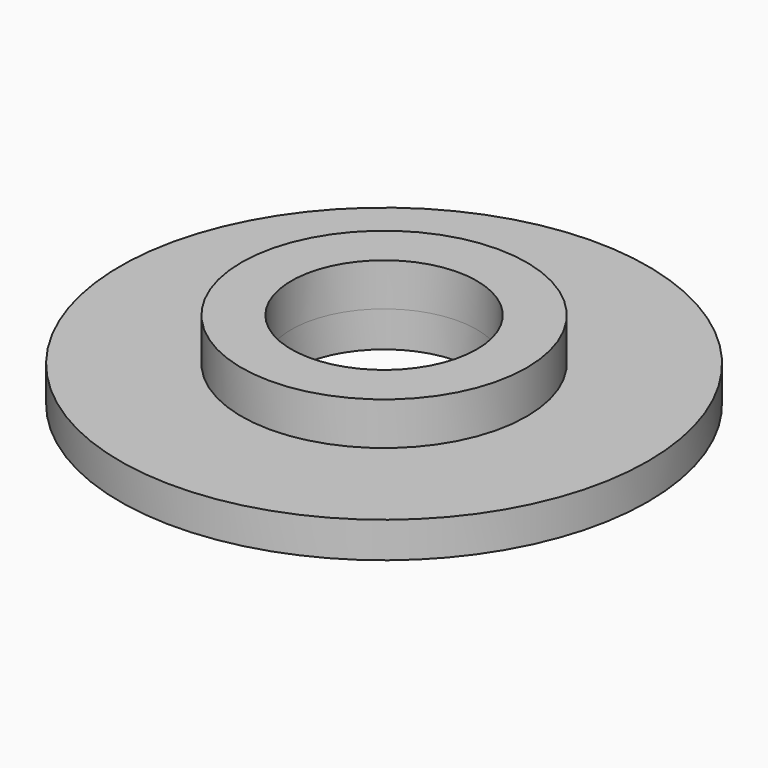
from build123d import *

# Parameters (mm, degrees)
F0_R      = 185
F1_DEPTH  = 25
F2_R      = 100
F2_R_2    = 65
F3_DEPTH  = 30
F3_FACE_R = 65
F4_DEPTH  = 25.001


with BuildPart() as f1:
    # F0 (on Top) → F1 (new body)
    with BuildSketch(Plane.XY):
        Circle(F0_R)
    extrude(amount=F1_DEPTH)

    # F2 (on face) → F3 (join)
    with BuildSketch(Plane.XY.offset(25)):
        Circle(F2_R)
        Circle(F2_R_2, mode=Mode.SUBTRACT)
    extrude(amount=F3_DEPTH)

    # F3_face (on face) → F4 (cut, through all)
    with BuildSketch(Plane.XY.offset(25)):
        Circle(F3_FACE_R)
    extrude(amount=-F4_DEPTH, mode=Mode.SUBTRACT)


solid = f1.part
